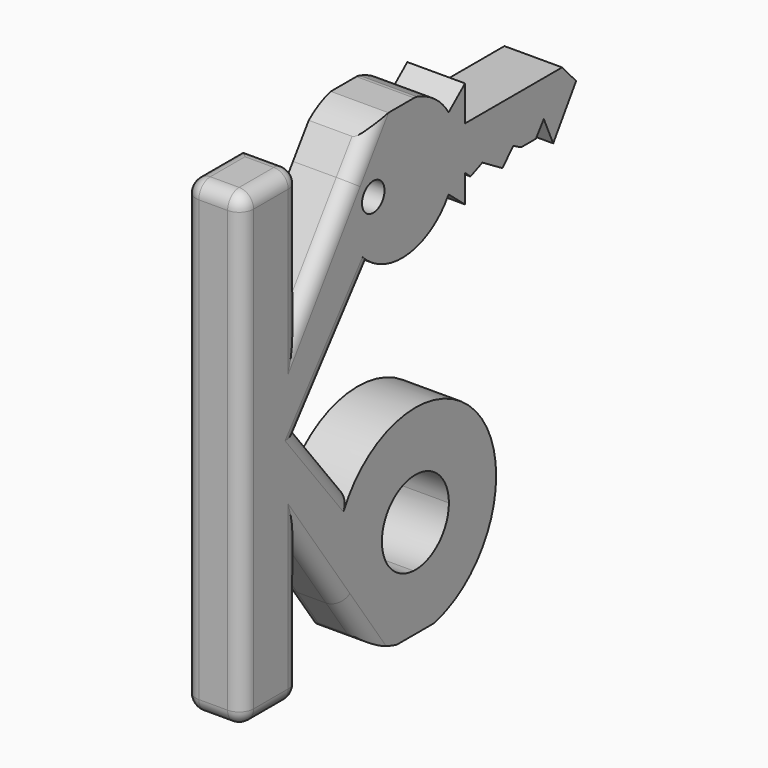
from build123d import *

# Parameters (mm, degrees)
F0_R     = 2.476830384
F0_W     = 1.4847664508
F0_H     = 6.35
F1_DEPTH = 10.16
F2_R     = 2.54


with BuildPart() as f1:
    # F0 (on Right) → F1 (new body)
    with BuildSketch(Plane.YZ):
        Polygon((-12.7859174941, 41.275), (-25.4859174941, 41.275), (-25.4859174941, 0), (-12.7859174941, 18.1374796856), align=None)
        Polygon((-12.7859174941, 18.1374796856), (-25.4859174941, 0), (-12.7859174941, -18.1374796856), (-12.7859174941, 0), align=None)
        with BuildLine():
            Line((-12.7859174941, 0), (-12.7859174941, -18.1374796856))
            Line((-12.7859174941, -18.1374796856), (-3.8262820868, -30.9331651338))
            ThreePointArc((-3.8262820868, -30.9331651338), (-4.9808453905, -22.1615497886), (-1.7649908775, -13.9194304048))
            Line((-1.7649908775, -13.9194304048), (-12.7859174941, 0))
        make_face()
        Polygon((-12.7859174941, -18.1374796856), (-25.4859174941, 0), (-25.4859174941, -41.275), (-12.7859174941, -41.275), align=None)
        with BuildLine():
            ThreePointArc((-1.7649908775, -13.9194304048), (-4.9808453905, -22.1615497886), (-3.8262820868, -30.9331651338))
            Line((-3.8262820868, -30.9331651338), (0.7948947361, -37.5328896022))
            ThreePointArc((0.7948947361, -37.5328896022), (4.4509166454, -40.0662604083), (8.6213238247, -41.6129238499))
            Line((8.6213238247, -41.6129238499), (16.7188414486, -41.6129238499))
            ThreePointArc((16.7188414486, -41.6129238499), (18.1090826399, -41.2277000329), (19.4635172648, -40.731036358))
            Line((19.4635172648, -40.731036358), (12.2868024965, -31.6668455484))
            ThreePointArc((12.2868024965, -31.6668455484), (6.8866357903, -28.8791743085), (5.4117238908, -22.9836212144))
            Line((5.4117238908, -22.9836212144), (-1.7649908775, -13.9194304048))
        make_face()
        with BuildLine():
            ThreePointArc((30.4500826367, -24.300039859), (18.1231915168, -7.3769194747), (-1.7649908775, -13.9194304048))
            Line((-1.7649908775, -13.9194304048), (5.4117238908, -22.9836212144))
            ThreePointArc((5.4117238908, -22.9836212144), (13.3309493362, -16.9529326094), (20.0468522367, -24.300039859))
            ThreePointArc((20.0468522367, -24.300039859), (17.7489289843, -29.6499977568), (12.2868024965, -31.6668455484))
            Line((12.2868024965, -31.6668455484), (19.4635172648, -40.731036358))
            ThreePointArc((19.4635172648, -40.731036358), (27.4504017754, -34.182881867), (30.4500826367, -24.300039859))
        make_face()
        with BuildLine():
            Line((-1.5775528515, 34.1446833088), (-12.7859174941, 18.1374796856))
            Line((-12.7859174941, 18.1374796856), (-12.7859174941, 0))
            Line((-12.7859174941, 0), (2.9841893191, 19.9176450311))
            ThreePointArc((2.9841893191, 19.9176450311), (-1.763802881, 26.2401091232), (-1.5775528515, 34.1446833088))
        make_face()
        with BuildLine():
            Line((17.9186733985, 38.7798985425), (2.9841893191, 19.9176450311))
            ThreePointArc((2.9841893191, 19.9176450311), (12.2603418149, 18.1282692763), (19.9820541252, 23.5710654062))
            Line((19.9820541252, 23.5710654062), (19.9820541252, 36.2767071198))
            ThreePointArc((19.9820541252, 36.2767071198), (19.0348785601, 37.5979683806), (17.9186733985, 38.7798985425))
        make_face()
        with BuildLine():
            Line((1.8930880599, 39.1012722086), (-1.5775528515, 34.1446833088))
            ThreePointArc((-1.5775528515, 34.1446833088), (-1.763802881, 26.2401091232), (2.9841893191, 19.9176450311))
            Line((2.9841893191, 19.9176450311), (17.9186733985, 38.7798985425))
            ThreePointArc((17.9186733985, 38.7798985425), (15.4927249878, 40.5209748262), (12.7134769516, 41.6129238499))
            Line((12.7134769516, 41.6129238499), (6.7366465898, 41.6129238499))
            ThreePointArc((6.7366465898, 41.6129238499), (4.171026982, 40.6344848722), (1.8930880599, 39.1012722086))
        make_face()
        with Locations((3.3962282663, 29.923886263)):
            Circle(F0_R, mode=Mode.SUBTRACT)
        Polygon((23.5980694161, 39.3109042168), (19.9820541252, 36.2767071198), (23.5980694161, 36.2767071198), align=None)
        with BuildLine():
            ThreePointArc((21.7900617707, 29.923886263), (21.3292601006, 26.6213408627), (19.9820541252, 23.5710654062))
            Line((19.9820541252, 23.5710654062), (23.5980694161, 23.5710654062))
            Line((23.5980694161, 23.5710654062), (23.5980694161, 25.4382899789))
            Line((23.5980694161, 25.4382899789), (22.1133029653, 26.748886263))
            Line((22.1133029653, 26.748886263), (22.1133029653, 33.098886263))
            Line((22.1133029653, 33.098886263), (23.5980694161, 33.098886263))
            Line((23.5980694161, 33.098886263), (23.5980694161, 36.2767071198))
            Line((23.5980694161, 36.2767071198), (19.9820541252, 36.2767071198))
            ThreePointArc((19.9820541252, 36.2767071198), (21.3292601006, 33.2264316634), (21.7900617707, 29.923886263))
        make_face()
        with BuildLine():
            Line((19.9820541252, 36.2767071198), (19.9820541252, 23.5710654062))
            ThreePointArc((19.9820541252, 23.5710654062), (21.3292601006, 26.6213408627), (21.7900617707, 29.923886263))
            ThreePointArc((21.7900617707, 29.923886263), (21.3292601006, 33.2264316634), (19.9820541252, 36.2767071198))
        make_face()
        with Locations((22.8556861907, 29.923886263)):
            Rectangle(F0_W, F0_H)
        Polygon((22.1133029653, 26.748886263), (23.5980694161, 25.4382899789), (23.5980694161, 26.748886263), align=None)
        Polygon((23.5980694161, 23.5710654062), (19.9820541252, 23.5710654062), (23.5980694161, 20.5368683093), align=None)
        Polygon((44.9733029653, 33.098886263), (23.5980694161, 33.098886263), (23.5980694161, 26.748886263), (40.9346896774, 26.748886263), (44.9733029653, 26.748886263), align=None)
        Polygon((23.5980694161, 26.748886263), (23.5980694161, 25.4382899789), (24.8001961815, 24.3771784008), (27.4288224834, 25.4811998457), (31.844913851, 22.8000022471), (34.2106743562, 25.3234822303), (35.9455681252, 24.3771784008), (39.1914657905, 24.3771784008), (40.9346896774, 26.748886263), align=None)
        Polygon((48.0538682116, 29.7363082874), (44.9733029653, 33.098886263), (44.9733029653, 26.748886263), (40.9346896774, 26.748886263), (43.0080477987, 22.1112590571), align=None)
    extrude(amount=F1_DEPTH)

    # F2
    f2_edges = [f1.edges().sort_by_distance(p)[0] for p in [
        (10.16, -25.485917, 0),
        (10.16, -19.135917, 41.275),
        (5.08, -12.785917, 41.275),
        (0, -19.135917, 41.275),
        (5.08, -25.485917, 41.275),
        (0, -25.485917, 0),
        (10.16, -5.446415, 28.619376),
        (10.16, -12.785917, 29.70624),
        (10.16, -4.900864, 9.958823),
        (0, -4.900864, 9.958823),
        (10.16, -7.275454, -6.959715),
        (0, -7.275454, -6.959715),
        (10.16, -12.785917, -29.70624),
        (0, -12.785917, -29.70624),
        (0, -19.135917, -41.275),
        (5.08, -12.785917, -41.275),
        (10.16, -19.135917, -41.275),
        (5.08, -25.485917, -41.275),
        (5.08, 12.713477, 41.612924),
        (10.16, -5.995511, -27.835185),
        (0, -5.995511, -27.835185),
    ]]
    fillet(f2_edges, radius=F2_R)


solid = f1.part
